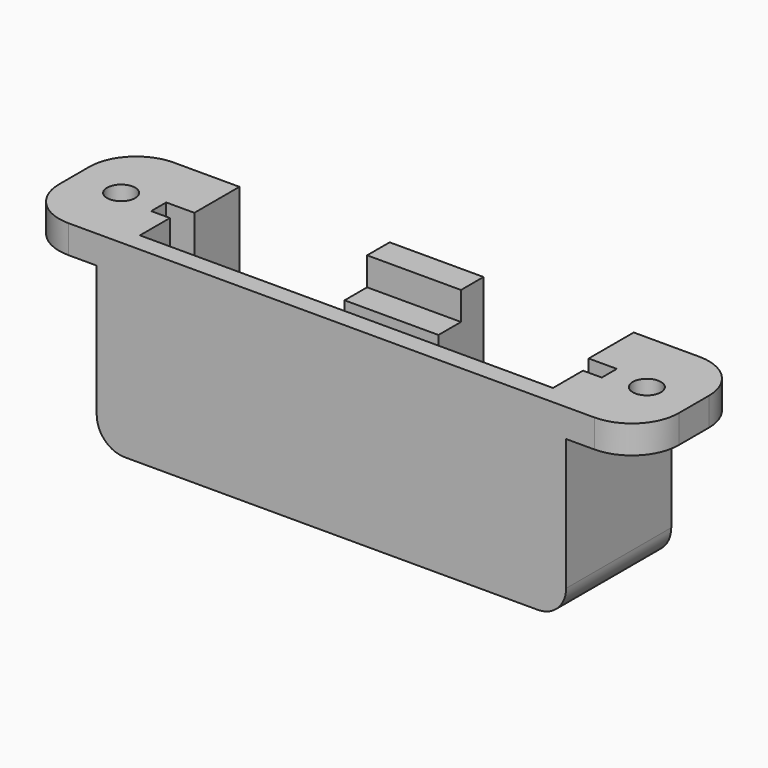
from build123d import *

# Parameters (mm, degrees)
SKETCH_W        = 50
SKETCH_H        = 14
PAD_DEPTH       = 20
SKETCH001_W     = 48
SKETCH001_H     = 2
POCKET_DEPTH    = 18
SKETCH002_W     = 44
SKETCH002_H     = 4
POCKET001_DEPTH = 16
SKETCH003_W     = 16
SKETCH003_H     = 6
POCKET002_DEPTH = 18
SKETCH004_W     = 10
SKETCH004_H     = 3
POCKET003_DEPTH = 3
SKETCH005_W     = 14
SKETCH005_H     = 3
PAD001_DEPTH    = 8
SKETCH006_W     = 14
SKETCH006_H     = 3
PAD002_DEPTH    = 8
SKETCH007_R     = 1.5
POCKET004_DEPTH = 3
POCKET005_DEPTH = 3
SKETCH008_R     = 1.5
POCKET006_DEPTH = 3
FILLET_R        = 5
FILLET001_R     = 3
FILLET002_R     = 5
FILLET003_R     = 5
FILLET004_R     = 5
FILLET005_R     = 5


with BuildPart() as part:
    # Sketch → Pad (new body)
    with BuildSketch(Plane.XY):
        with Locations((1.773205, 8.517665)):
            Rectangle(SKETCH_W, SKETCH_H)
    extrude(amount=PAD_DEPTH)

    # Sketch001 (on Face6 of Pad) → Pocket (cut)
    with BuildSketch(Plane.XY.offset(20)):
        with Locations((1.773205, 8.517665)):
            Rectangle(SKETCH001_W, SKETCH001_H)
    extrude(amount=-POCKET_DEPTH, mode=Mode.SUBTRACT)

    # Sketch002 (on Face5 of Pocket) → Pocket001 (cut)
    with BuildSketch(Plane.XY.offset(20)):
        with Locations((1.773205, 5.517665)):
            Rectangle(SKETCH002_W, SKETCH002_H)
    extrude(amount=-POCKET001_DEPTH, mode=Mode.SUBTRACT)

    # Sketch003 (on Face5 of Pocket001) → Pocket002 (cut)
    with BuildSketch(Plane.XY.offset(20)):
        with Locations((-11.226795, 12.517665)):
            Rectangle(SKETCH003_W, SKETCH003_H)
        with Locations((14.773205, 12.517665)):
            Rectangle(SKETCH003_W, SKETCH003_H)
    extrude(amount=-POCKET002_DEPTH, mode=Mode.SUBTRACT)

    # Sketch004 (on Face8 of Pocket002) → Pocket003 (cut)
    with BuildSketch(Plane.XY.offset(20)):
        with Locations((1.773205, 11.017665)):
            Rectangle(SKETCH004_W, SKETCH004_H)
    extrude(amount=-POCKET003_DEPTH, mode=Mode.SUBTRACT)

    # Sketch005 (on Face12 of Pocket003) → Pad001 (join)
    with BuildSketch(Plane(origin=(-23.226795, 0, 0), x_dir=(0, -1, 0), z_dir=(-1, 0, 0))):
        with Locations((-8.517665, 18.5)):
            Rectangle(SKETCH005_W, SKETCH005_H)
    extrude(amount=PAD001_DEPTH)

    # Sketch006 (on Face3 of Pad001) → Pad002 (join)
    with BuildSketch(Plane.YZ.offset(26.773205)):
        with Locations((8.517665, 18.5)):
            Rectangle(SKETCH006_W, SKETCH006_H)
    extrude(amount=PAD002_DEPTH)

    # Sketch007 (on Face32 of Pad002) → Pocket004 (cut)
    with BuildSketch(Plane(origin=(0, 0, 17), x_dir=(1, 0, 0), z_dir=(0, 0, -1))):
        with Locations((-26.226795, -8.517665)):
            Circle(SKETCH007_R)
    extrude(amount=-POCKET004_DEPTH, mode=Mode.SUBTRACT)

    # Sketch007 (on Face32 of Pad002) → Pocket005 (cut)
    with BuildSketch(Plane(origin=(0, 0, 17), x_dir=(1, 0, 0), z_dir=(0, 0, -1))):
        with Locations((-26.226795, -8.517665)):
            Circle(SKETCH007_R)
    extrude(amount=-POCKET005_DEPTH, mode=Mode.SUBTRACT)

    # Sketch008 (on Face17 of Pocket005) → Pocket006 (cut)
    with BuildSketch(Plane.XY.offset(20)):
        with Locations((29.773205, 8.517665)):
            Circle(SKETCH008_R)
    extrude(amount=-POCKET006_DEPTH, mode=Mode.SUBTRACT)

    # Fillet
    fillet_edges = [part.edges().sort_by_distance(p)[0] for p in [
        (34.773205, 15.517665, 18.5),
        (34.773205, 1.517665, 18.5),
        (-31.226795, 1.517665, 18.5),
        (-31.226795, 15.517665, 18.5),
    ]]
    fillet(fillet_edges, radius=FILLET_R)

    # Fillet001
    fillet001_edges = [part.edges().sort_by_distance(p)[0] for p in [
        (-23.226795, 8.517665, 0),
        (26.773205, 8.517665, 0),
    ]]
    fillet(fillet001_edges, radius=FILLET001_R)

    # Fillet002
    fillet002_edges = [part.edges().sort_by_distance(p)[0] for p in [
        (-19.226795, 12.517665, 2),
    ]]
    fillet(fillet002_edges, radius=FILLET002_R)

    # Fillet003
    fillet003_edges = [part.edges().sort_by_distance(p)[0] for p in [
        (-3.226795, 12.517665, 2),
    ]]
    fillet(fillet003_edges, radius=FILLET003_R)

    # Fillet004
    fillet004_edges = [part.edges().sort_by_distance(p)[0] for p in [
        (22.773205, 12.517665, 2),
    ]]
    fillet(fillet004_edges, radius=FILLET004_R)

    # Fillet005
    fillet005_edges = [part.edges().sort_by_distance(p)[0] for p in [
        (6.773205, 12.517665, 2),
    ]]
    fillet(fillet005_edges, radius=FILLET005_R)


solid = part.part
